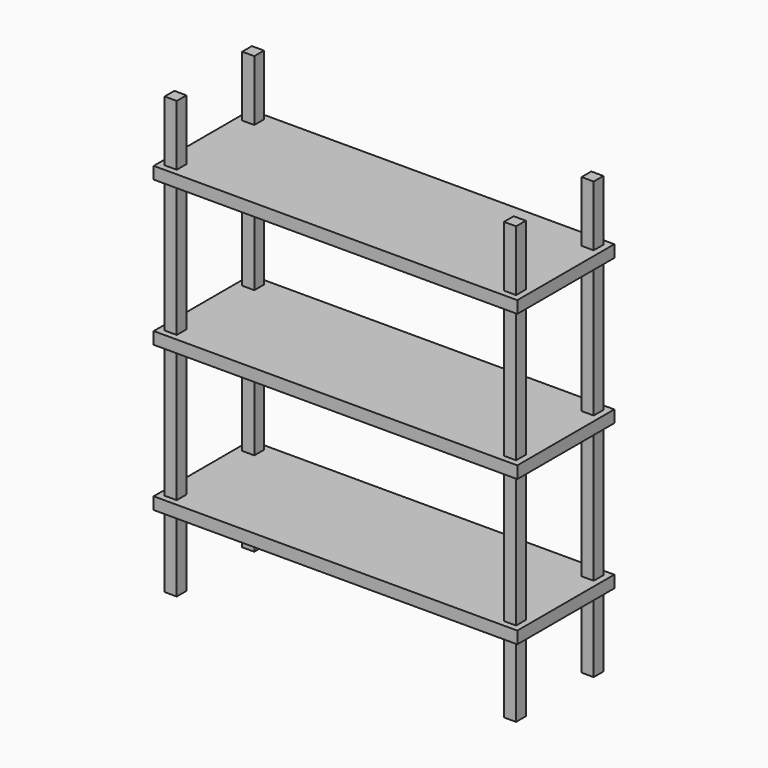
from build123d import *

# Parameters (mm, degrees)
F1_W      = 1500
F1_H      = 500
F2_DEPTH  = 50
F3_W      = 50
F3_H      = 50
F4_DEPTH  = 1800
F6_W      = 1500
F6_H      = 500
F7_DEPTH  = 50
F9_W      = 1500
F9_H      = 500
F10_DEPTH = 50


with BuildPart() as f2:
    # F1 (on offset) → F2 (new body)
    with BuildSketch(Plane.XY.offset(300)):
        with Locations((750, 250)):
            Rectangle(F1_W, F1_H)
    extrude(amount=F2_DEPTH)

    # F3 (on Top) → F4 (join)
    with BuildSketch(Plane.XY):
        with Locations((50, 50)):
            Rectangle(F3_W, F3_H)
        with Locations((1450, 50)):
            Rectangle(F3_W, F3_H)
        with Locations((1450, 450)):
            Rectangle(F3_W, F3_H)
        with Locations((50, 450)):
            Rectangle(F3_W, F3_H)
    extrude(amount=F4_DEPTH)

    # F6 (on offset) → F7 (join)
    with BuildSketch(Plane.XY.offset(900)):
        with Locations((750, 250)):
            Rectangle(F6_W, F6_H)
    extrude(amount=F7_DEPTH)

    # F9 (on offset) → F10 (join)
    with BuildSketch(Plane.XY.offset(1500)):
        with Locations((750, 250)):
            Rectangle(F9_W, F9_H)
    extrude(amount=F10_DEPTH)


solid = f2.part
